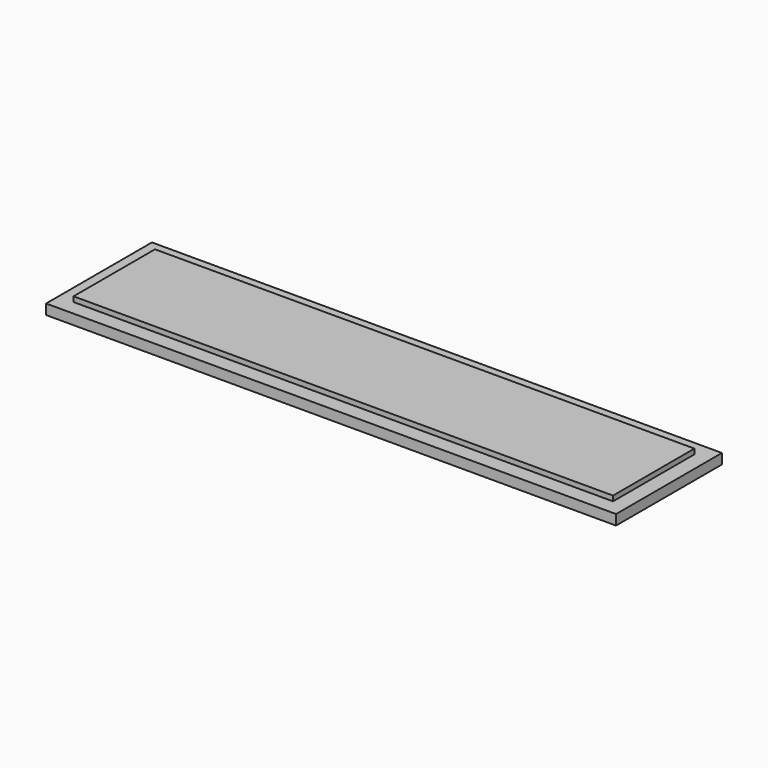
from build123d import *

# Parameters (mm, degrees)
F0_W     = 711.2
F0_H     = 165.1
F1_DEPTH = 19.05
F2_W     = 673.1
F2_H     = 19.05
F2_W_2   = 19.05
F2_H_2   = 127
F3_DEPTH = 6.35


with BuildPart() as f1:
    # F0 (on Top) → F1 (new body)
    with BuildSketch(Plane.XY):
        Rectangle(F0_W, F0_H)
    extrude(amount=F1_DEPTH)

    # F2 (on face) → F3 (cut)
    with BuildSketch(Plane.XY.offset(19.05)):
        with Locations((0, -73.025)):
            Rectangle(F2_W, F2_H)
        with Locations((-346.075, -73.025)):
            Rectangle(F2_W_2, F2_H)
        with Locations((-346.075, 73.025)):
            Rectangle(F2_W_2, F2_H)
        with Locations((346.075, -73.025)):
            Rectangle(F2_W_2, F2_H)
        with Locations((346.075, 73.025)):
            Rectangle(F2_W_2, F2_H)
        with Locations((-346.075, 73.025)):
            Rectangle(F2_W_2, F2_H)
        with Locations((0, 73.025)):
            Rectangle(F2_W, F2_H)
        with Locations((346.075, 73.025)):
            Rectangle(F2_W_2, F2_H)
        with Locations((-346.075, 0)):
            Rectangle(F2_W_2, F2_H_2)
        with Locations((346.075, 0)):
            Rectangle(F2_W_2, F2_H_2)
    extrude(amount=-F3_DEPTH, mode=Mode.SUBTRACT)


solid = f1.part
